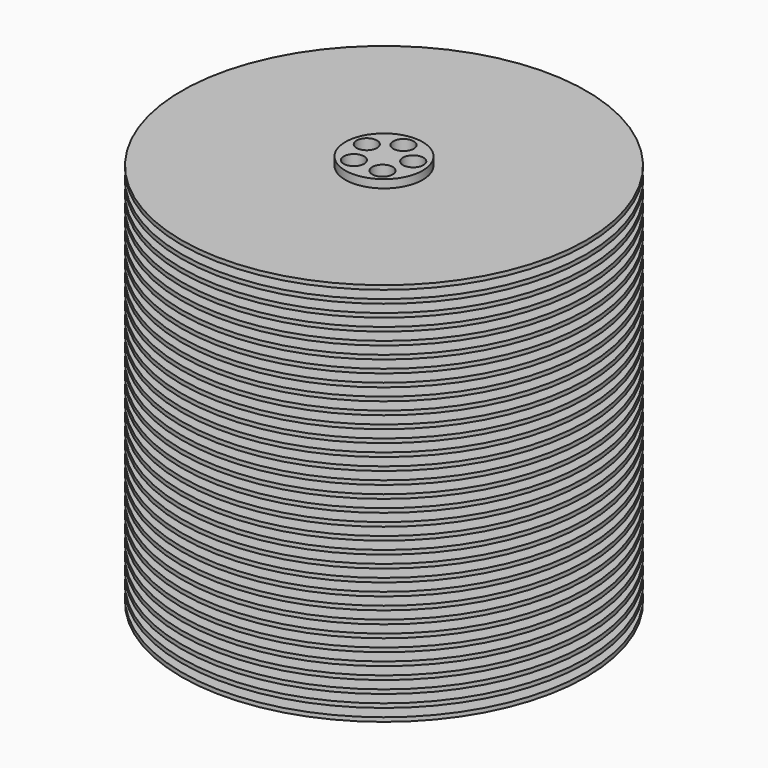
from build123d import *

# Parameters (mm, degrees)
F0_R        = 4.73
F0_R_2      = 1.25
F1_DEPTH    = 50
F2_W        = 20
F2_H        = 0.5
F1_FACE_R   = 4.73
F1_FACE_R_2 = 1.25
F5_DEPTH    = 5


with BuildPart() as f1:
    # F0 (on Top) → F1 (new body)
    with BuildSketch(Plane.XY):
        Circle(F0_R)
        with Locations((-1.7516, -2.410871)):
            Circle(F0_R_2, mode=Mode.SUBTRACT)
        with Locations((1.7516, -2.410871)):
            Circle(F0_R_2, mode=Mode.SUBTRACT)
        with Locations((-2.834148, 0.920871)):
            Circle(F0_R_2, mode=Mode.SUBTRACT)
        with Locations((2.834148, 0.920871)):
            Circle(F0_R_2, mode=Mode.SUBTRACT)
        with BuildLine():
            ThreePointArc((0, 1.73), (-0.883883, 3.863883), (1.25, 2.98))
            ThreePointArc((1.25, 2.98), (0.883883, 2.096117), (0, 1.73))
        make_face(mode=Mode.SUBTRACT)
    extrude(amount=F1_DEPTH)

    # F2 (on Front) → F3 (revolve)
    with BuildSketch(Plane.XZ):
        with Locations((14.73, 2.25)):
            Rectangle(F2_W, F2_H)
        with Locations((14.73, 3.75)):
            Rectangle(F2_W, F2_H)
        with Locations((14.73, 5.25)):
            Rectangle(F2_W, F2_H)
        with Locations((14.73, 6.75)):
            Rectangle(F2_W, F2_H)
        with Locations((14.73, 8.25)):
            Rectangle(F2_W, F2_H)
        with Locations((14.73, 9.75)):
            Rectangle(F2_W, F2_H)
        with Locations((14.73, 11.25)):
            Rectangle(F2_W, F2_H)
        with Locations((14.73, 12.75)):
            Rectangle(F2_W, F2_H)
        with Locations((14.73, 14.25)):
            Rectangle(F2_W, F2_H)
        with Locations((14.73, 15.75)):
            Rectangle(F2_W, F2_H)
        with Locations((14.73, 17.25)):
            Rectangle(F2_W, F2_H)
        with Locations((14.73, 18.75)):
            Rectangle(F2_W, F2_H)
        with Locations((14.73, 36.75)):
            Rectangle(F2_W, F2_H)
        with Locations((14.73, 38.25)):
            Rectangle(F2_W, F2_H)
        with Locations((14.73, 39.75)):
            Rectangle(F2_W, F2_H)
        with Locations((14.73, 41.25)):
            Rectangle(F2_W, F2_H)
        with Locations((14.73, 42.75)):
            Rectangle(F2_W, F2_H)
        with Locations((14.73, 44.25)):
            Rectangle(F2_W, F2_H)
        with Locations((14.73, 26.25)):
            Rectangle(F2_W, F2_H)
        with Locations((14.73, 27.75)):
            Rectangle(F2_W, F2_H)
        with Locations((14.73, 29.25)):
            Rectangle(F2_W, F2_H)
        with Locations((14.73, 21.75)):
            Rectangle(F2_W, F2_H)
        with Locations((14.73, 23.25)):
            Rectangle(F2_W, F2_H)
        with Locations((14.73, 20.25)):
            Rectangle(F2_W, F2_H)
        with Locations((14.73, 30.75)):
            Rectangle(F2_W, F2_H)
        with Locations((14.73, 32.25)):
            Rectangle(F2_W, F2_H)
        with Locations((14.73, 33.75)):
            Rectangle(F2_W, F2_H)
        with Locations((14.73, 35.25)):
            Rectangle(F2_W, F2_H)
        with Locations((14.73, 45.75)):
            Rectangle(F2_W, F2_H)
        with Locations((14.73, 24.75)):
            Rectangle(F2_W, F2_H)
    revolve(axis=Axis((0, 0, 30.401131), (0, 0, 1)))

    # F2 (on Front) → F4 (revolve)
    with BuildSketch(Plane.XZ):
        with Locations((14.73, 48.75)):
            Rectangle(F2_W, F2_H)
        with Locations((14.73, 47.25)):
            Rectangle(F2_W, F2_H)
    revolve(axis=Axis((0, 0, 30.401131), (0, 0, 1)))

    # F1_face (on face) → F5 (join)
    with BuildSketch(Plane(origin=(0, 0, 0), x_dir=(1, 0, 0), z_dir=(0, 0, -1))):
        Circle(F1_FACE_R)
        with Locations((-1.7516, 2.410871)):
            Circle(F1_FACE_R_2, mode=Mode.SUBTRACT)
        with Locations((1.7516, 2.410871)):
            Circle(F1_FACE_R_2, mode=Mode.SUBTRACT)
        with Locations((-2.834148, -0.920871)):
            Circle(F1_FACE_R_2, mode=Mode.SUBTRACT)
        with Locations((2.834148, -0.920871)):
            Circle(F1_FACE_R_2, mode=Mode.SUBTRACT)
        with Locations((0, -2.98)):
            Circle(F1_FACE_R_2, mode=Mode.SUBTRACT)
    extrude(amount=F5_DEPTH)


solid = f1.part
